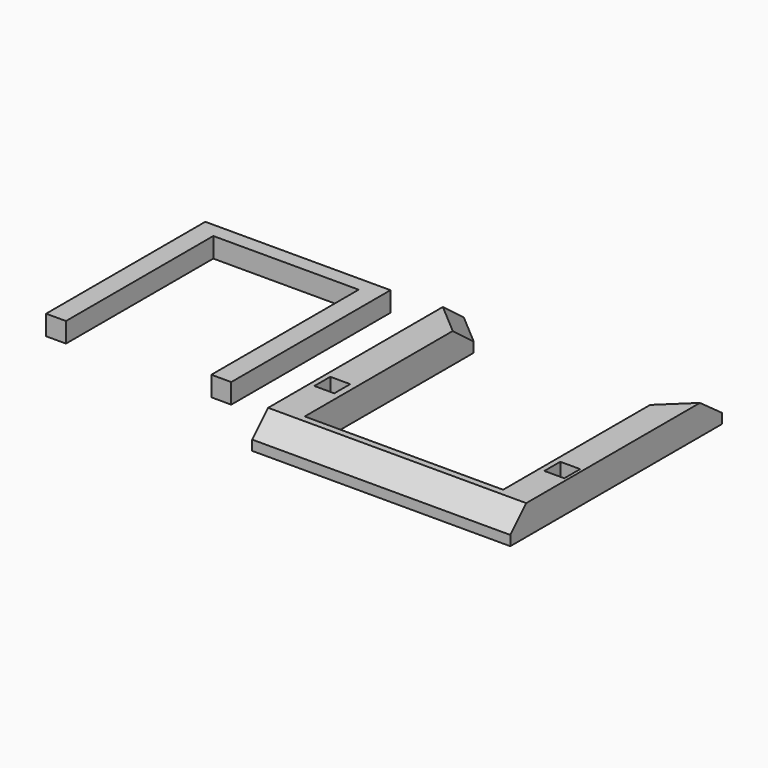
from build123d import *

# Parameters (mm, degrees)
F0_W     = 37.1021415129
F0_H     = 3.7951407298
F1_DEPTH = 5.08
F2_W     = 5.08
F2_H     = 5.08
F3_DEPTH = 7.62
F4_SIZE  = 5.08


with BuildPart() as f1:
    # F0 (on Top) → F1 (new body)
    with BuildSketch(Plane.XY):
        Polygon((-57.9732320131, 47.2929266557), (-57.9732320131, -3.5070733443), (-52.8932320131, -3.5070733443), (-52.8932320131, 43.4977859259), (-52.8932320131, 47.2929266557), align=None)
        Polygon((-15.7910905002, 47.2929266557), (-15.7910905002, 43.4977859259), (-15.7910905002, -3.5070733443), (-10.7110905002, -3.5070733443), (-10.7110905002, 47.2929266557), align=None)
        with Locations((-34.3421612567, 45.3953562908)):
            Rectangle(F0_W, F0_H)
    extrude(amount=F1_DEPTH)


with BuildPart() as f3:
    # F2 (on Top) → F3 (new body)
    with BuildSketch(Plane.XY):
        Polygon((70.8905990372, 1.7161462436), (70.8905990372, 51.0413096702), (63.6802796012, 44.1587287516), (63.6802796012, 1.7161462436), (65.0306269526, 1.7161462436), (65.0306269526, 6.7961462436), (70.1106269526, 6.7961462436), (70.1106269526, 1.7161462436), align=None)
        Polygon((13.0441530983, 44.1587287516), (5.0144725343, 51.0413096702), (5.0144725343, -16.4735316714), (70.8905990372, -16.4735316714), (70.8905990372, 1.7161462436), (70.1106269526, 1.7161462436), (65.0306269526, 1.7161462436), (63.6802796012, 1.7161462436), (63.6802796012, -9.7548216009), (13.0441530983, -9.7548216009), (13.0441530983, 1.7161462436), align=None)
        with Locations((8.8654414384, 4.2561462436)):
            Rectangle(F2_W, F2_H, mode=Mode.SUBTRACT)
    extrude(amount=F3_DEPTH)

    # F4
    f4_edges = [f3.edges().sort_by_distance(p)[0] for p in [
        (37.952536, -16.473532, 7.62),
        (9.029313, 47.600019, 7.62),
        (67.285439, 47.600019, 7.62),
    ]]
    chamfer(f4_edges, length=F4_SIZE)


solid = Compound([f1.part, f3.part])
